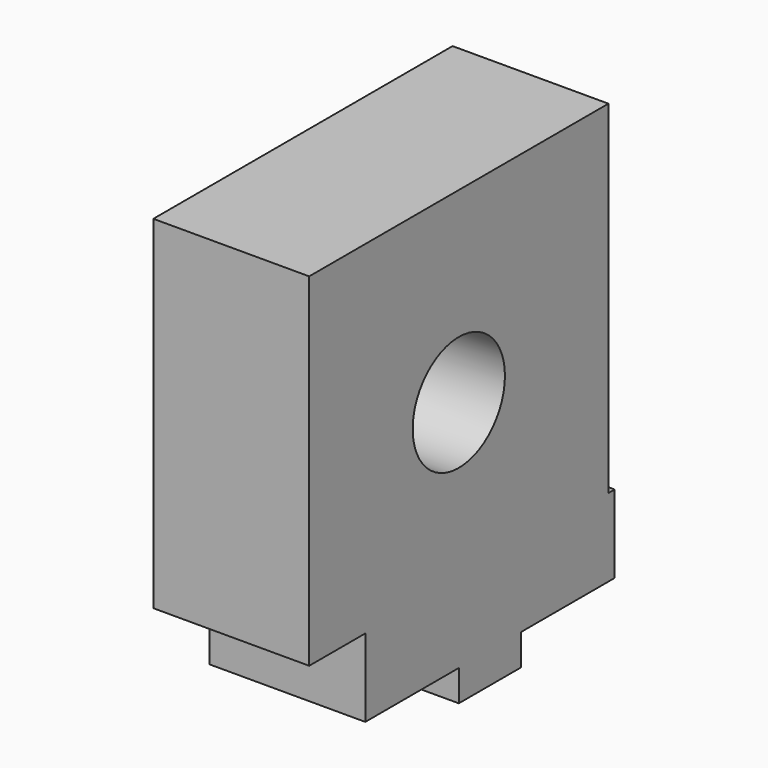
from build123d import *

# Parameters (mm, degrees)
SKETCH058_W     = 10
SKETCH058_H     = 20
PAD028_DEPTH    = 5
SKETCH059_W     = 10
SKETCH059_H     = 10
PAD027_DEPTH    = 6
SKETCH054_W     = 24
SKETCH054_H     = 22
PAD030_DEPTH    = 5
SKETCH055_W     = 25
SKETCH055_H     = 18
POCKET021_DEPTH = 5
SKETCH056_R     = 3.7
POCKET020_DEPTH = 10
SKETCH057_W     = 10
SKETCH057_H     = 5
PAD029_DEPTH    = 2
SKETCH065_R     = 9
POCKET025_DEPTH = 5


with BuildPart() as part:
    # Sketch058 → Pad028 (new body)
    with BuildSketch(Plane.XY):
        with Locations((0, 2.5)):
            Rectangle(SKETCH058_W, SKETCH058_H)
    extrude(amount=PAD028_DEPTH)

    # Sketch059 → Pad027 (join)
    with BuildSketch(Plane.XY):
        Rectangle(SKETCH059_W, SKETCH059_H)
    extrude(amount=PAD027_DEPTH)

    # Sketch054 → Pad030 (join, symmetric)
    with BuildSketch(Plane.YZ):
        with Locations((0, 16)):
            Rectangle(SKETCH054_W, SKETCH054_H)
    extrude(amount=PAD030_DEPTH, both=True)

    # Sketch055 → Pocket021 (cut)
    with BuildSketch(Plane.YZ):
        with Locations((12.5, 15)):
            Rectangle(SKETCH055_W, SKETCH055_H)
    extrude(amount=-POCKET021_DEPTH, mode=Mode.SUBTRACT)

    # Sketch056 → Pocket020 (cut, symmetric)
    with BuildSketch(Plane.YZ):
        with Locations((0, 15)):
            Circle(SKETCH056_R)
    extrude(amount=POCKET020_DEPTH, both=True, mode=Mode.SUBTRACT)

    # Sketch057 → Pad029 (join)
    with BuildSketch(Plane.XY):
        with Locations((0, 2.5)):
            Rectangle(SKETCH057_W, SKETCH057_H)
    extrude(amount=-PAD029_DEPTH)

    # Sketch065 → Pocket025 (cut)
    with BuildSketch(Plane.YZ):
        with Locations((0, 15)):
            Circle(SKETCH065_R)
    extrude(amount=-POCKET025_DEPTH, mode=Mode.SUBTRACT)


with BuildPart() as part_1:
    # Body011 placement: moved
    add(part.part.moved(Location((35, 37.5, -1))))


solid = part_1.part
